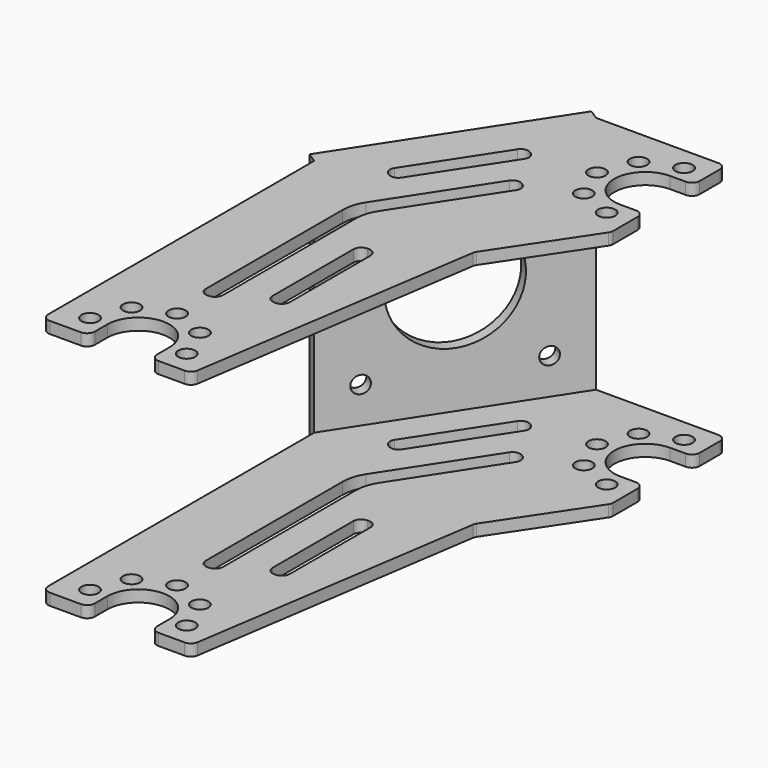
from build123d import *

# Parameters (mm, degrees)
F0_R      = 1.1
F1_DEPTH  = 1.5
F3_DEPTH  = 1.5
F5_DEPTH  = 1.5
F6_R      = 1
F8_DEPTH  = 16.15
F11_R     = 1.1
F11_R_2   = 7.5
F12_DEPTH = 1.5


with BuildPart() as f1:
    # F0 (on Top) → F1 (new body)
    with BuildSketch(Plane.XY):
        with BuildLine():
            Line((16.5, 34.3955410847), (-16.5, 34.3955410847))
            Line((-16.5, 34.3955410847), (-16.5, -34.3955410847))
            Line((-16.5, -34.3955410847), (-10.5, -34.3955410847))
            Line((-10.5, -34.3955410847), (-10.5, -31.3955410847))
            ThreePointArc((-10.5, -31.3955410847), (-6.5, -27.3955410847), (-2.5, -31.3955410847))
            Line((-2.5, -31.3955410847), (-2.5, -34.3955410847))
            Line((-2.5, -34.3955410847), (16.5, -34.3955410847))
            Line((16.5, -34.3955410847), (16.5, 21.1730014102))
            Line((16.5, 21.1730014102), (13.5, 21.1730014102))
            ThreePointArc((13.5, 21.1730014102), (9.5, 25.1730014102), (13.5, 29.1730014102))
            Line((13.5, 29.1730014102), (16.5, 29.1730014102))
            Line((16.5, 29.1730014102), (16.5, 34.3955410847))
        make_face()
        with Locations((-12.7225396744, -31.3955410847)):
            Circle(F0_R, mode=Mode.SUBTRACT)
        with Locations((-10.9, -26.9955410847)):
            Circle(F0_R, mode=Mode.SUBTRACT)
        with Locations((-0.2774603256, -31.3955410847)):
            Circle(F0_R, mode=Mode.SUBTRACT)
        with Locations((-2.1, -26.9955410847)):
            Circle(F0_R, mode=Mode.SUBTRACT)
        with Locations((-6.5, -25.1730014102)):
            Circle(F0_R, mode=Mode.SUBTRACT)
        with Locations((7.2774603256, 25.1730014102)):
            Circle(F0_R, mode=Mode.SUBTRACT)
        with Locations((9.1, 20.7730014102)):
            Circle(F0_R, mode=Mode.SUBTRACT)
        with Locations((13.5, 18.9504617358)):
            Circle(F0_R, mode=Mode.SUBTRACT)
        with Locations((9.1, 29.5730014102)):
            Circle(F0_R, mode=Mode.SUBTRACT)
        with Locations((13.5, 31.3955410847)):
            Circle(F0_R, mode=Mode.SUBTRACT)
    extrude(amount=F1_DEPTH)

    # F2 (on face) → F3 (cut, through all)
    with BuildSketch(Plane.XY.offset(1.5)):
        Polygon((16.5, -34.3955410847), (16.5, 15.9504617358), (8.5, 3.9504617358), (2.7225396744, -34.3955410847), align=None)
        Polygon((-16.5, 9.3955410847), (-0.2225396744, 34.3955410847), (-16.5, 34.3955410847), align=None)
    extrude(amount=-F3_DEPTH, mode=Mode.SUBTRACT)

    # F4 (on face) → F5 (cut, through all)
    with BuildSketch(Plane.XY.offset(1.5)):
        with BuildLine():
            Line((-7.3635261338, 12.0333090433), (-0.2702674285, 22.9276048416))
            ThreePointArc((-0.2702674285, 22.9276048416), (-0.1298962002, 23.6799892884), (-0.5626548972, 24.3112628803))
            Line((-0.5626548972, 24.3112628803), (-0.7302594479, 24.4203899373))
            ThreePointArc((-0.7302594479, 24.4203899373), (-1.4826438948, 24.5607611656), (-2.1139174867, 24.1280024686))
            Line((-2.1139174867, 24.1280024686), (-9.2071761919, 13.2337066703))
            ThreePointArc((-9.2071761919, 13.2337066703), (-9.3475474202, 12.4813222235), (-8.9147887232, 11.8500486316))
            Line((-8.9147887232, 11.8500486316), (-8.7471841725, 11.7409215746))
            ThreePointArc((-8.7471841725, 11.7409215746), (-7.9947997256, 11.6005503463), (-7.3635261338, 12.0333090433))
        make_face()
        with BuildLine():
            ThreePointArc((2.8700363395, 18.5870607935), (2.1176518927, 18.7274320218), (1.4863783008, 18.2946733248))
            Line((1.4863783008, 18.2946733248), (-6.7901137686, 5.5830894784))
            ThreePointArc((-6.7901137686, 5.5830894784), (-7.3932540535, 4.2778380614), (-7.6, 2.8549130533))
            Line((-7.6, 2.8549130533), (-7.6, -19.1730014102))
            ThreePointArc((-7.6, -19.1730014102), (-7.3071067812, -19.8801081914), (-6.6, -20.1730014102))
            Line((-6.6, -20.1730014102), (-6.5, -20.1730014102))
            Line((-6.5, -20.1730014102), (-6.4, -20.1730014102))
            ThreePointArc((-6.4, -20.1730014102), (-5.6928932188, -19.8801081914), (-5.4, -19.1730014102))
            Line((-5.4, -19.1730014102), (-5.4, 2.2018212324))
            ThreePointArc((-5.4, 2.2018212324), (-5.1932540535, 3.6247462405), (-4.5901137686, 4.9299976575))
            Line((-4.5901137686, 4.9299976575), (3.330028359, 17.0942756977))
            ThreePointArc((3.330028359, 17.0942756977), (3.4703995873, 17.8466601446), (3.0376408903, 18.4779337365))
            Line((3.0376408903, 18.4779337365), (2.9538386149, 18.532497265))
            Line((2.9538386149, 18.532497265), (2.8700363395, 18.5870607935))
        make_face()
        with BuildLine():
            Line((-0.2, -2.1730014102), (-0.4, -2.1730014102))
            ThreePointArc((-0.4, -2.1730014102), (-1.1071067812, -2.4658946291), (-1.4, -3.1730014102))
            Line((-1.4, -3.1730014102), (-1.4, -16.1730014102))
            ThreePointArc((-1.4, -16.1730014102), (-1.1071067812, -16.8801081914), (-0.4, -17.1730014102))
            Line((-0.4, -17.1730014102), (-0.2, -17.1730014102))
            ThreePointArc((-0.2, -17.1730014102), (0.5071067812, -16.8801081914), (0.8, -16.1730014102))
            Line((0.8, -16.1730014102), (0.8, -3.1730014102))
            ThreePointArc((0.8, -3.1730014102), (0.5071067812, -2.4658946291), (-0.2, -2.1730014102))
        make_face()
    extrude(amount=-F5_DEPTH, mode=Mode.SUBTRACT)

    # F6
    f6_edges = [f1.edges().sort_by_distance(p)[0] for p in [
        (-16.5, -34.395541, 0.75),
        (-10.5, -34.395541, 0.75),
        (-2.5, -34.395541, 0.75),
        (2.72254, -34.395541, 0.75),
        (8.5, 3.950462, 0.75),
        (16.5, 15.950462, 0.75),
        (16.5, 34.395541, 0.75),
        (16.5, 21.173001, 0.75),
        (16.5, 29.173001, 0.75),
    ]]
    fillet(f6_edges, radius=F6_R)

    # F7 (on face) → F8 (join)
    with BuildSketch(Plane.XY.offset(1.5)):
        Polygon((-17.7570341306, 10.2139940122), (-16.5, 9.3955410847), (-0.2225396744, 34.3955410847), (-1.479573805, 35.2139940122), align=None)
    extrude(amount=-F8_DEPTH)

    # F10: F1 across plane


with BuildPart() as f1_1:
    add(f1.part)
    add(f1.part.mirror(Plane.XY.offset(-14.65)))

    # F11 (on face) → F12 (cut, through all)
    with BuildSketch(Plane(origin=(-17.1408454803, 11.1603772901, 0), x_dir=(-0.545635285, -0.8380227537, 0), z_dir=(-0.8380227537, 0.545635285, 0))):
        with Locations((-23.7867577831, -24.65)):
            Circle(F11_R)
        with Locations((-23.7867577831, -4.65)):
            Circle(F11_R)
        with Locations((-3.7867577831, -24.65)):
            Circle(F11_R)
        with Locations((-3.7867577831, -4.65)):
            Circle(F11_R)
        with Locations((-13.7867577831, -14.65)):
            Circle(F11_R_2)
    extrude(amount=-F12_DEPTH, mode=Mode.SUBTRACT)


solid = f1_1.part
